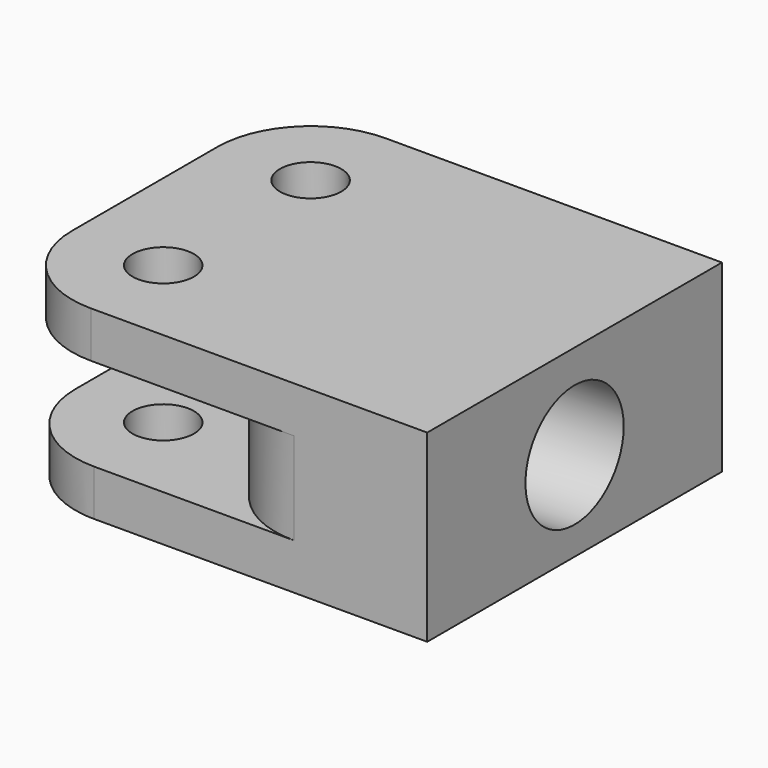
from build123d import *

# Parameters (mm, degrees)
F1_DEPTH = 38.1
F2_R     = 3.175
F3_DEPTH = 38.1
F4_R     = 6.35
F5_DEPTH = 12.7
F6_R     = 9.652


with BuildPart() as f1:
    # F0 (on Front) → F1 (new body)
    with BuildSketch(Plane.XZ):
        Polygon((-27.85063, -5.873353), (16.251101, -5.847953), (16.251101, 13.202047), (-28.198899, 13.202047), (-28.198899, 8.426847), (-7.198899, 8.426847), (-7.198899, -1.098153), (-27.85063, -1.098153), align=None)
    extrude(amount=F1_DEPTH)

    # F2 (on face) → F3 (cut)
    with BuildSketch(Plane.XY.offset(13.202047)):
        with Locations((-18.673899, -28.575)):
            Circle(F2_R)
        with Locations((-18.673899, -9.525)):
            Circle(F2_R)
    extrude(amount=-F3_DEPTH, mode=Mode.SUBTRACT)

    # F4 (on face) → F5 (cut)
    with BuildSketch(Plane.YZ.offset(16.251101)):
        with Locations((-19.05, 3.426872)):
            Circle(F4_R)
    extrude(amount=-F5_DEPTH, mode=Mode.SUBTRACT)

    # F6
    f6_edges = [f1.edges().sort_by_distance(p)[0] for p in [
        (-28.198899, -38.1, 10.814447),
        (-28.198899, 0, 10.814447),
        (-27.85063, 0, -3.485753),
        (-27.85063, -38.1, -3.485753),
        (-7.198899, -38.1, 3.664347),
        (-7.198899, 0, 3.664347),
    ]]
    fillet(f6_edges, radius=F6_R)


solid = f1.part
